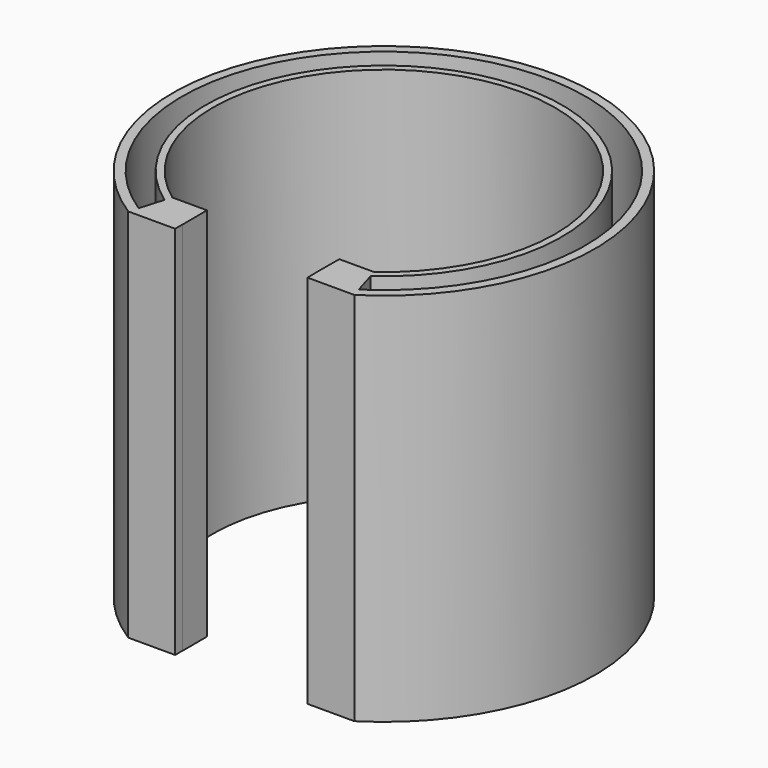
from build123d import *

# Parameters (mm, degrees)
F1_DEPTH = 160
F3_DEPTH = 160
F4_W     = 56.415766
F4_H     = 160
F5_DEPTH = 4
F7_DEPTH = 160


with BuildPart() as f1:
    # F0 (on Top) → F1 (new body)
    with BuildSketch(Plane.XY):
        with BuildLine():
            Line((-48.207883, -76), (48.207883, -76))
            ThreePointArc((48.207883, -76), (0, 90), (-48.207883, -76))
        make_face()
    extrude(amount=F1_DEPTH)

    # F2 (on face) → F3 (cut, through all)
    with BuildSketch(Plane.XY.offset(160)):
        with BuildLine():
            Line((-47.031904, -72), (47.031904, -72))
            ThreePointArc((47.031904, -72), (0, 86), (-47.031904, -72))
        make_face()
    extrude(amount=-F3_DEPTH, mode=Mode.SUBTRACT)

    # F4 (on face) → F5 (cut, through all)
    with BuildSketch(Plane.XZ.offset(76)):
        with Locations((0, 80)):
            Rectangle(F4_W, F4_H)
    extrude(amount=-F5_DEPTH, mode=Mode.SUBTRACT)

    # F6 (on Top) → F7 (join)
    with BuildSketch(Plane.XY):
        with BuildLine():
            Line((46.919916, -72.018087), (43.954522, -62))
            ThreePointArc((43.954522, -62), (0, 76), (-43.954522, -62))
            Line((-43.954522, -62), (-46.919916, -72.018087))
            Line((-46.919916, -72.018087), (-28.151507, -72.018087))
            Line((-28.151507, -72.018087), (-28.207883, -59))
            Line((-28.207883, -59), (-42.988371, -59))
            ThreePointArc((-42.988371, -59), (0, 73), (42.988371, -59))
            Line((42.988371, -59), (28.207883, -59))
            Line((28.207883, -59), (28.151507, -72.018087))
            Line((28.151507, -72.018087), (46.919916, -72.018087))
        make_face()
    extrude(amount=F7_DEPTH)


solid = f1.part
